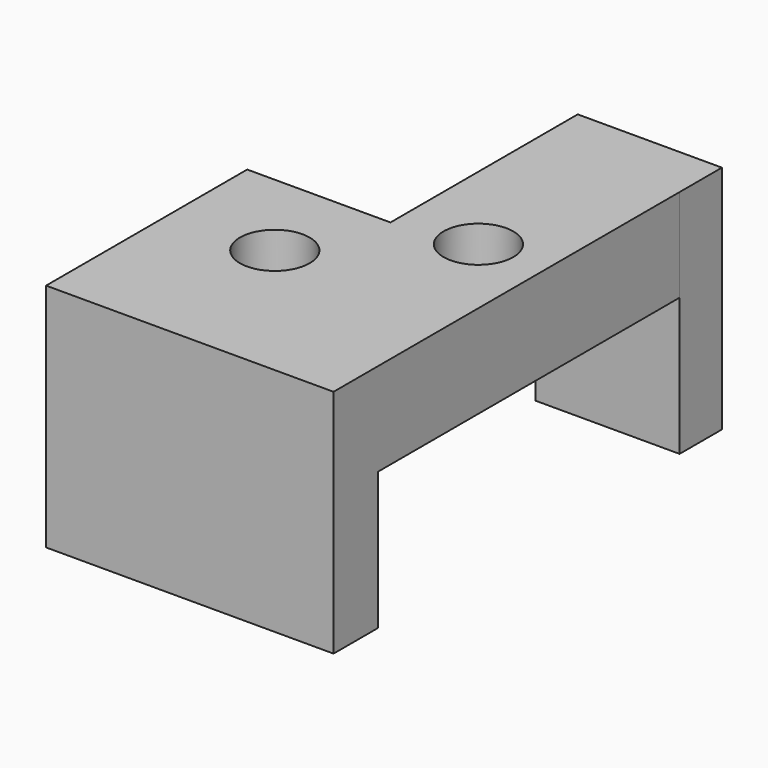
from build123d import *

# Parameters (mm, degrees)
F0_W     = 39.405261
F0_H     = 14.46261
F0_R     = 9.525
F0_W_2   = 78.554068
F0_H_2   = 15.210686
F1_DEPTH = 25.4
F2_DEPTH = 37.592


with BuildPart() as f1:
    # F0 (on Top) → F1 (new body)
    with BuildSketch(Plane.XY):
        with Locations((-4.360169, 56.728363)):
            Rectangle(F0_W, F0_H)
        Polygon((15.342461, 49.497058), (-24.0628, 49.497058), (-24.0628, 0), (-63.211607, 0), (-63.211607, -53.48674), (15.342461, -53.48674), align=None)
        with Locations((-35.274969, -25.494586)):
            Circle(F0_R, mode=Mode.SUBTRACT)
        with Locations((-3.116944, 3.865009)):
            Circle(F0_R, mode=Mode.SUBTRACT)
        with Locations((-23.934573, -61.092083)):
            Rectangle(F0_W_2, F0_H_2)
    extrude(amount=F1_DEPTH)

    # F0 (on Top) → F2 (join)
    with BuildSketch(Plane.XY):
        with Locations((-4.360169, 56.728363)):
            Rectangle(F0_W, F0_H)
        with Locations((-23.934573, -61.092083)):
            Rectangle(F0_W_2, F0_H_2)
    extrude(amount=-F2_DEPTH)


solid = f1.part
